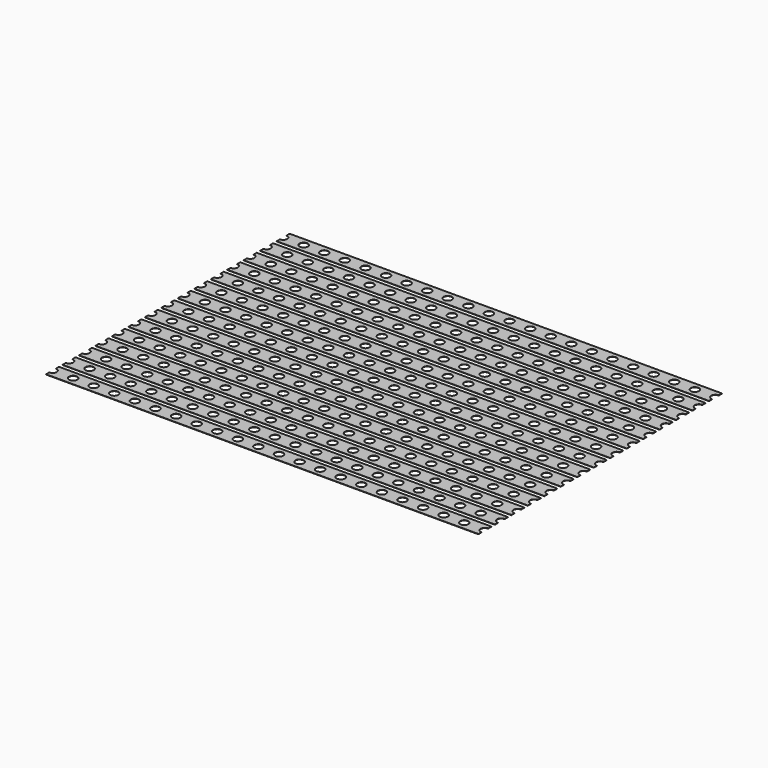
from build123d import *

# Parameters (mm, degrees)
SKETCH002_W            = 53.34
SKETCH002_H            = 2
PAD001_DEPTH           = 0.035
SKETCH003_R            = 0.51
POCKET001_DEPTH        = 0.036
LINEARPATTERN004_COUNT = 22
LINEARPATTERN004_PITCH = 2.54
ARRAY_Y_COUNT          = 15
ARRAY_Y_PITCH          = 2.54


with BuildPart() as part:
    # Sketch002 → Pad001 (new body)
    with BuildSketch(Plane.XY):
        with Locations((0, 17.78)):
            Rectangle(SKETCH002_W, SKETCH002_H)
    extrude(amount=-PAD001_DEPTH)

    # Sketch003 → Pocket001 (cut, through all)
    with BuildSketch(Plane.XY):
        with Locations((-26.67, 17.78)):
            Circle(SKETCH003_R)
    pocket001 = extrude(amount=-POCKET001_DEPTH, mode=Mode.SUBTRACT)

    # LinearPattern004: Pocket001 ×22
    with Locations(*[(i * LINEARPATTERN004_PITCH, 0, 0) for i in range(1, LINEARPATTERN004_COUNT)]):
        add(pocket001, mode=Mode.SUBTRACT)

    # Array Y: part ×15


with BuildPart() as part_1:
    add(part.part)
    with Locations(*[(0, -i * ARRAY_Y_PITCH, 0) for i in range(1, ARRAY_Y_COUNT)]):
        add(part.part)


solid = part_1.part
